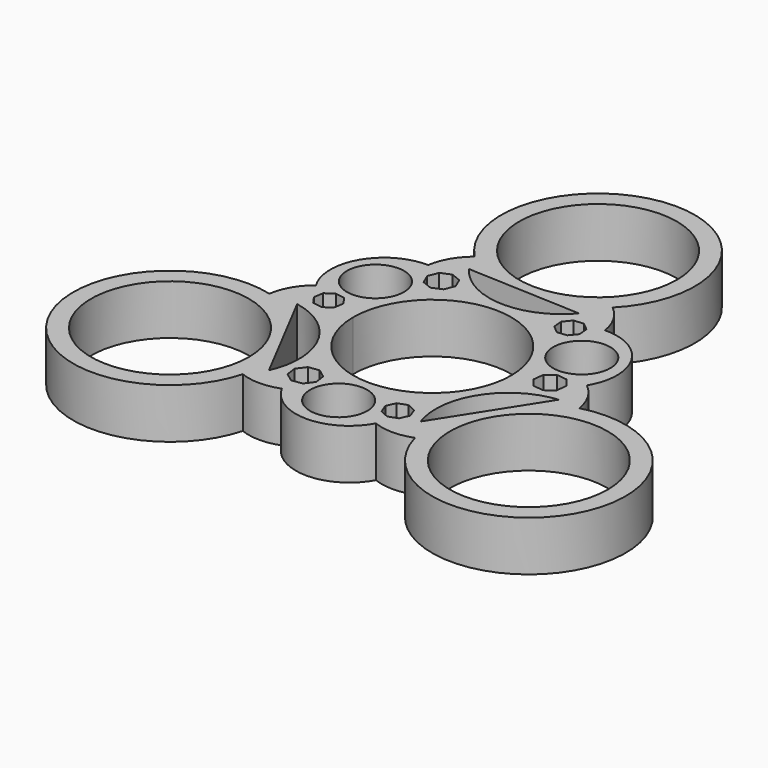
from build123d import *

# Parameters (mm, degrees)
F0_R     = 11.05
F0_R_2   = 4
F1_DEPTH = 7


with BuildPart() as f1:
    # F0 (on Top) → F1 (new body)
    with BuildSketch(Plane.XY):
        with BuildLine():
            ThreePointArc((-18.961918, 3.343498), (-20.777697, 1.23345), (-21.698821, -1.393503))
            ThreePointArc((-21.698821, -1.393503), (-36.856378, -21.27904), (-12.05622, -18.094979))
            ThreePointArc((-12.05622, -18.094979), (-9.320649, -18.610739), (-6.585405, -18.093251))
            ThreePointArc((-6.585405, -18.093251), (0, -22.00404), (6.585405, -18.093251))
            ThreePointArc((6.585405, -18.093251), (9.320649, -18.610739), (12.05622, -18.094979))
            ThreePointArc((12.05622, -18.094979), (36.856378, -21.27904), (21.698821, -1.393503))
            ThreePointArc((21.698821, -1.393503), (20.777697, 1.23345), (18.961918, 3.343498))
            ThreePointArc((18.961918, 3.343498), (19.056057, 11.00202), (12.376513, 14.749754))
            ThreePointArc((12.376513, 14.749754), (11.457048, 17.377288), (9.642601, 19.488482))
            ThreePointArc((9.642601, 19.488482), (0, 42.558079), (-9.642601, 19.488482))
            ThreePointArc((-9.642601, 19.488482), (-11.457048, 17.377288), (-12.376513, 14.749754))
            ThreePointArc((-12.376513, 14.749754), (-19.056057, 11.00202), (-18.961918, 3.343498))
        make_face()
        with Locations((-25.121734, -14.50404)):
            Circle(F0_R, mode=Mode.SUBTRACT)
        Polygon((-8.239777, -15.026816), (-8.454451, -13.536826), (-7.552666, -12.331446), (-6.062676, -12.116772), (-4.857296, -13.018557), (-4.642622, -14.508547), (-5.544407, -15.713927), (-7.034397, -15.928601), align=None, mode=Mode.SUBTRACT)
        with BuildLine():
            ThreePointArc((-17.783627, -1.417626), (-10.655181, -6.70699), (-10.402175, -15.579877))
            Line((-10.402175, -15.579877), (-17.783627, -1.417626))
        make_face(mode=Mode.SUBTRACT)
        Polygon((-15.243006, -0.317038), (-16.595347, -0.092157), (-17.392582, 1.023107), (-17.167701, 2.375449), (-16.052436, 3.172683), (-14.700095, 2.947802), (-13.90286, 1.832538), (-14.127741, 0.480197), align=None, mode=Mode.SUBTRACT)
        with Locations((0, -16.388141)):
            Circle(F0_R_2, mode=Mode.SUBTRACT)
        Polygon((7.896066, -13.042311), (8.377484, -14.325914), (7.810254, -15.573972), (6.526652, -16.055389), (5.278594, -15.488159), (4.797176, -14.204557), (5.364406, -12.956499), (6.648008, -12.475081), align=None, mode=Mode.SUBTRACT)
        with Locations((25.121734, -14.50404)):
            Circle(F0_R, mode=Mode.SUBTRACT)
        with BuildLine():
            ThreePointArc((10.119514, -14.69226), (11.136014, -5.874162), (18.693656, -1.218609))
            Line((18.693656, -1.218609), (10.119514, -14.69226))
        make_face(mode=Mode.SUBTRACT)
        with BuildLine():
            ThreePointArc((-11.049599, -0.09414), (-0.047071, 11.0499), (11.05, 0))
            ThreePointArc((11.05, 0), (0.047071, -11.0499), (-11.049599, -0.09414))
        make_face(mode=Mode.SUBTRACT)
        Polygon((17.133493, 0.377552), (15.95046, -0.553356), (14.455679, -0.375077), (13.524771, 0.807955), (13.703049, 2.302737), (14.886082, 3.233645), (16.380863, 3.055366), (17.311772, 1.872334), align=None, mode=Mode.SUBTRACT)
        with Locations((-14.450066, 8.117487)):
            Circle(F0_R_2, mode=Mode.SUBTRACT)
        Polygon((-7.49601, 14.090182), (-6.903013, 12.706524), (-7.462095, 11.308817), (-8.845753, 10.71582), (-10.243459, 11.274903), (-10.836456, 12.658561), (-10.277374, 14.056267), (-8.893716, 14.649264), align=None, mode=Mode.SUBTRACT)
        with BuildLine():
            ThreePointArc((7.664113, 16.109886), (-0.480834, 12.581152), (-8.291482, 16.798486))
            Line((-8.291482, 16.798486), (7.664113, 16.109886))
        make_face(mode=Mode.SUBTRACT)
        Polygon((10.641049, 13.679941), (10.773843, 12.315476), (9.902919, 11.256755), (8.538454, 11.123961), (7.479733, 11.994885), (7.34694, 13.35935), (8.217863, 14.418071), (9.582328, 14.550864), align=None, mode=Mode.SUBTRACT)
        with Locations((14.431565, 8.117487)):
            Circle(F0_R_2, mode=Mode.SUBTRACT)
        with Locations((0, 29.008079)):
            Circle(F0_R, mode=Mode.SUBTRACT)
    extrude(amount=F1_DEPTH)


solid = f1.part
